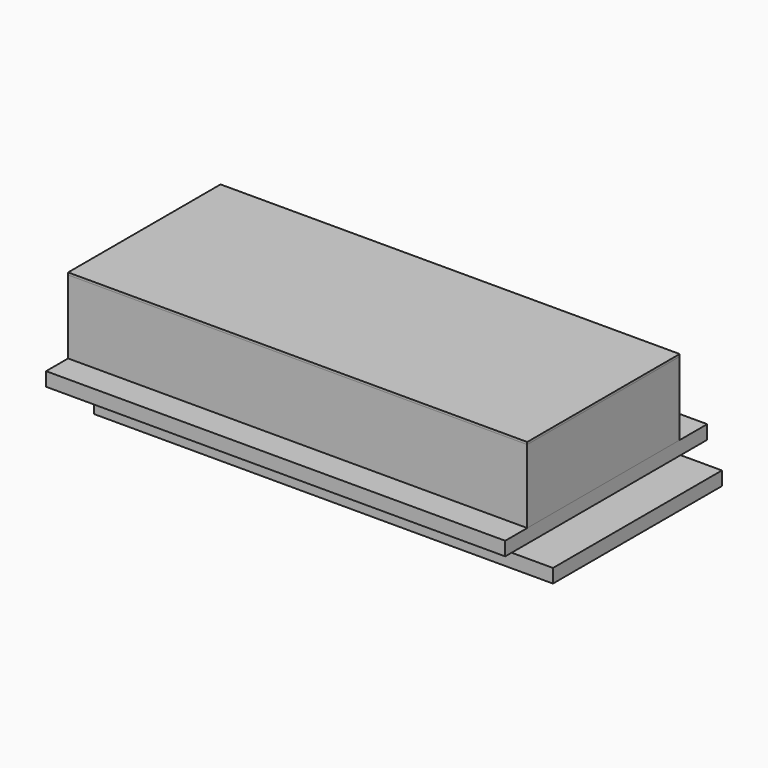
from build123d import *

# Parameters (mm, degrees)
F0_W     = 50.8
F0_H     = 23.368
F1_DEPTH = 1.524
F3_W     = 50.8
F3_H     = 27.94
F4_DEPTH = 1.524
F6_W     = 50.8
F6_H     = 21.082
F7_DEPTH = 8.128
F8_W     = 50.8
F8_H     = 21.082
F9_DEPTH = 0.254


with BuildPart() as f1:
    # F0 (on Top) → F1 (new body)
    with BuildSketch(Plane.XY):
        with Locations((25.4, -11.684)):
            Rectangle(F0_W, F0_H)
        with Locations((25.4, -11.684)):
            Rectangle(F0_W, F0_H)
    extrude(amount=-F1_DEPTH)


with BuildPart() as f4:
    # F3 (on offset) → F4 (new body)
    with BuildSketch(Plane.XY.offset(3.81)):
        with Locations((25.4, -16.002)):
            Rectangle(F3_W, F3_H)
    extrude(amount=F4_DEPTH)


with BuildPart() as f7:
    # F6 (on offset) → F7 (new body)
    with BuildSketch(Plane.XY.offset(5.334)):
        with Locations((25.4, -16.383)):
            Rectangle(F6_W, F6_H)
    extrude(amount=F7_DEPTH)


with BuildPart() as f9:
    # F8 (on face) → F9 (new body)
    with BuildSketch(Plane.XY.offset(13.462)):
        with Locations((25.4, -16.383)):
            Rectangle(F8_W, F8_H)
    extrude(amount=F9_DEPTH)


solid = Compound([f1.part, f4.part, f7.part, f9.part])
